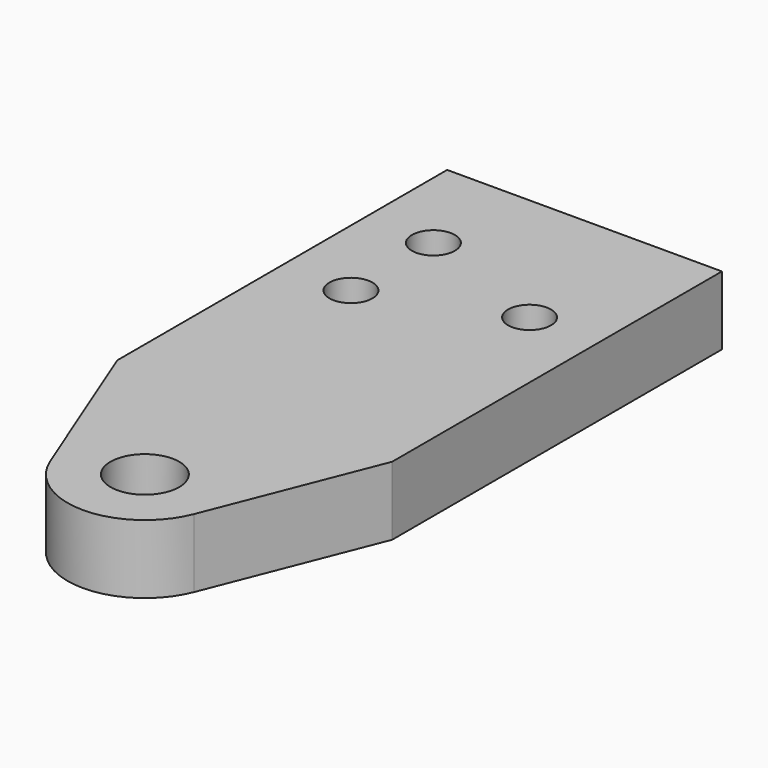
from build123d import *

# Parameters (mm, degrees)
F0_R     = 12.7
F0_R_2   = 7.9375
F1_DEPTH = 25.4


with BuildPart() as f1:
    # F0 (on Top) → F1 (new body)
    with BuildSketch(Plane.XY):
        with BuildLine():
            Line((39.152589, 103.629632), (-62.447411, 103.629632))
            Line((-62.447411, 103.629632), (-62.447411, -48.770368))
            Line((-62.447411, -48.770368), (-38.222643, -110.072162))
            ThreePointArc((-38.222643, -110.072162), (-11.647411, -128.145368), (14.92782, -110.072162))
            Line((14.92782, -110.072162), (39.152589, -48.770368))
            Line((39.152589, -48.770368), (39.152589, 103.629632))
        make_face()
        with Locations((-11.647411, -99.570368)):
            Circle(F0_R, mode=Mode.SUBTRACT)
        with Locations((-37.047411, 27.429632)):
            Circle(F0_R_2, mode=Mode.SUBTRACT)
        with Locations((-37.047411, 65.529632)):
            Circle(F0_R_2, mode=Mode.SUBTRACT)
        with Locations((13.752589, 46.479632)):
            Circle(F0_R_2, mode=Mode.SUBTRACT)
    extrude(amount=F1_DEPTH)


solid = f1.part
